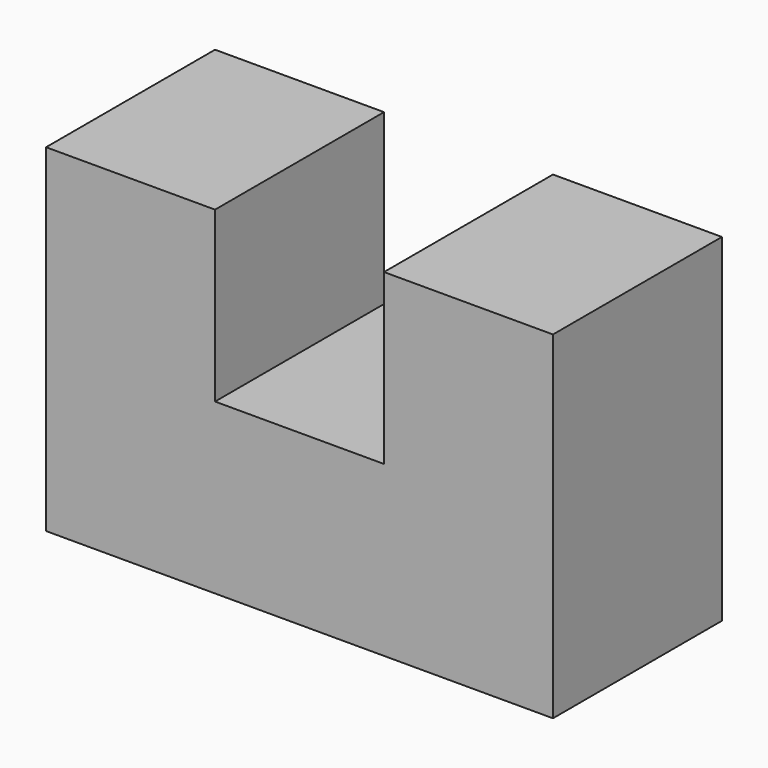
from build123d import *

# Parameters (mm, degrees)
F0_W     = 20
F0_H     = 20
F1_DEPTH = 25


with BuildPart() as f1:
    # F0 (on Front) → F1 (new body)
    with BuildSketch(Plane.XZ):
        Polygon((-33.662323, -20), (-33.662323, -40), (26.337677, -40), (26.337677, -20), (6.337677, -20), (-13.662323, -20), align=None)
        with Locations((-23.662323, -10)):
            Rectangle(F0_W, F0_H)
        with Locations((16.337677, -10)):
            Rectangle(F0_W, F0_H)
    extrude(amount=F1_DEPTH)


solid = f1.part
